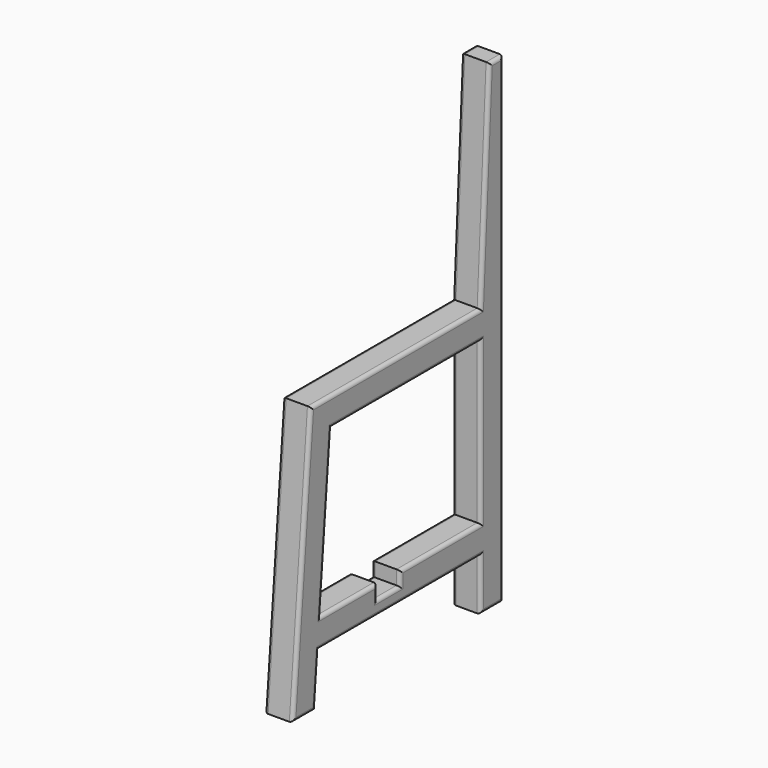
from build123d import *

# Parameters (mm, degrees)
F1_DEPTH = 40
F2_W     = 40
F2_H     = 20
F3_DEPTH = 40.001
F4_R     = 5


with BuildPart() as f1:
    # F0 (on Right) → F1 (new body)
    with BuildSketch(Plane.YZ):
        Polygon((-151.999998, 380), (-184, 0), (-143.858423, 0), (-137.725254, 72.831372), (148.000002, 72.831372), (148.000002, 0), (188.000002, 0), (188.000002, 680), (163.722336, 680), (148.000002, 380), align=None)
        Polygon((148.000002, 112.831372), (-134.356833, 112.831372), (-115.226841, 340), (148.000002, 340), align=None, mode=Mode.SUBTRACT)
    extrude(amount=F1_DEPTH)

    # F2 (on face) → F3 (cut, through all)
    with BuildSketch(Plane.YZ.offset(40)):
        with Locations((-14.652766, 102.831372)):
            Rectangle(F2_W, F2_H)
    extrude(amount=-F3_DEPTH, mode=Mode.SUBTRACT)

    # F4
    f4_edges = [f1.edges().sort_by_distance(p)[0] for p in [
        (40, -167.999999, 190),
        (40, -1.999998, 380),
        (40, -163.929211, 0),
        (40, 155.861169, 530),
        (40, -140.791838, 36.415686),
        (40, 175.861169, 680),
        (40, 5.137374, 72.831372),
        (40, 188.000002, 340),
        (40, 148.000002, 36.415686),
        (40, 168.000002, 0),
        (40, -84.504799, 112.831372),
        (40, -34.652766, 102.831372),
        (40, -14.652766, 92.831372),
        (40, 5.347234, 102.831372),
        (40, 76.673618, 112.831372),
        (40, 148.000002, 226.415686),
        (40, 16.38658, 340),
        (40, -124.791837, 226.415686),
        (0, -167.999999, 190),
        (0, -1.999998, 380),
        (0, -163.929211, 0),
        (0, 155.861169, 530),
        (0, -140.791838, 36.415686),
        (0, 175.861169, 680),
        (0, 5.137374, 72.831372),
        (0, 188.000002, 340),
        (0, 148.000002, 36.415686),
        (0, 168.000002, 0),
        (0, -84.504799, 112.831372),
        (0, -34.652766, 102.831372),
        (0, -14.652766, 92.831372),
        (0, 5.347234, 102.831372),
        (0, 76.673618, 112.831372),
        (0, 148.000002, 226.415686),
        (0, 16.38658, 340),
        (0, -124.791837, 226.415686),
    ]]
    fillet(f4_edges, radius=F4_R)


solid = f1.part
